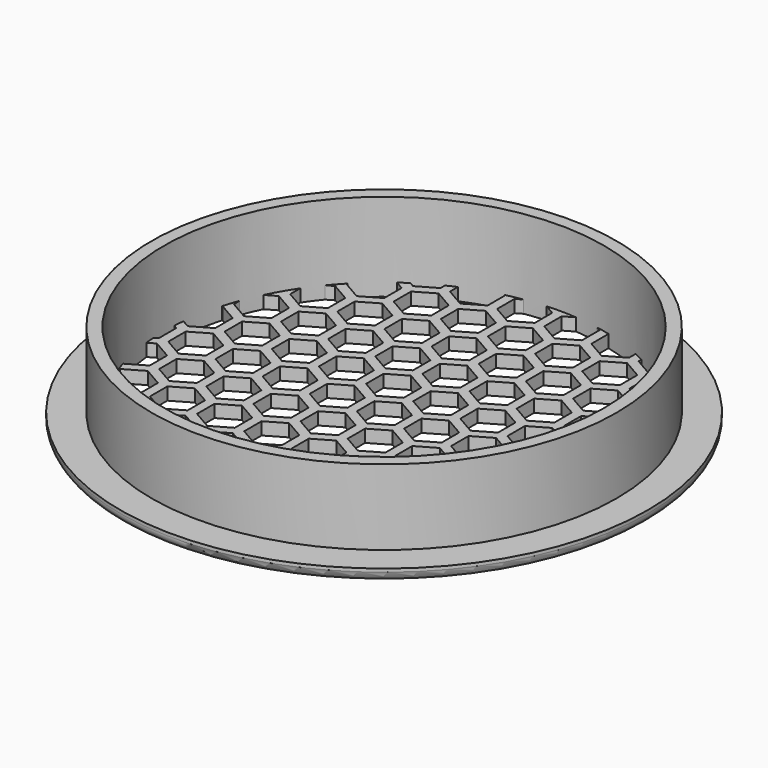
from build123d import *

# Parameters (mm, degrees)
F0_R     = 42
F0_R_2   = 35
F1_DEPTH = 2
F2_R     = 1.5
F3_R     = 37
F3_R_2   = 35
F4_DEPTH = 12
F6_DEPTH = 2


with BuildPart() as f1:
    # F0 (on Top) → F1 (new body)
    with BuildSketch(Plane.XY):
        Circle(F0_R)
        Circle(F0_R_2, mode=Mode.SUBTRACT)
    extrude(amount=F1_DEPTH)

    # F2
    f2_edges = [f1.edges().sort_by_distance(p)[0] for p in [
        (-42, 0, 0),
    ]]
    fillet(f2_edges, radius=F2_R)

    # F3 (on face) → F4 (join)
    with BuildSketch(Plane.XY.offset(2)):
        Circle(F3_R)
        Circle(F3_R_2, mode=Mode.SUBTRACT)
    extrude(amount=F4_DEPTH)

    # F5 (on Top) → F6 (join)
    with BuildSketch(Plane.XY):
        with BuildLine():
            Line((-34.354155, -1.849096), (-36.652131, -3.175833))
            ThreePointArc((-36.652131, -3.175833), (-36.574215, -3.973846), (-36.478925, -4.769972))
            Line((-36.478925, -4.769972), (-33.636892, -3.129123))
            Line((-33.636892, -3.129123), (-30.636892, -4.861174))
            Line((-30.636892, -4.861174), (-30.636892, -8.325275))
            Line((-30.636892, -8.325275), (-33.636892, -10.057326))
            Line((-33.636892, -10.057326), (-35.705972, -8.862742))
            ThreePointArc((-35.705972, -8.862742), (-35.432544, -9.899468), (-35.129021, -10.927785))
            Line((-35.129021, -10.927785), (-34.419628, -11.337354))
            Line((-34.419628, -11.337354), (-34.419628, -12.990528))
            ThreePointArc((-34.419628, -12.990528), (-33.678938, -14.805193), (-32.842655, -16.577837))
            Line((-32.842655, -16.577837), (-30.702365, -17.813533))
            Line((-30.702365, -17.813533), (-30.702365, -20.268927))
            ThreePointArc((-30.702365, -20.268927), (-29.527925, -21.944618), (-28.262135, -23.552418))
            Line((-28.262135, -23.552418), (-26.985102, -24.289713))
            Line((-26.985102, -24.289713), (-26.985102, -25.005378))
            ThreePointArc((-26.985102, -25.005378), (-26.246211, -25.779857), (-25.485102, -26.532513))
            Line((-25.485102, -26.532513), (-25.485102, -24.289713))
            Line((-25.485102, -24.289713), (-22.485102, -22.557662))
            Line((-22.485102, -22.557662), (-19.485102, -24.289713))
            Line((-19.485102, -24.289713), (-19.485102, -27.753815))
            Line((-19.485102, -27.753815), (-22.211348, -29.327814))
            ThreePointArc((-22.211348, -29.327814), (-21.565339, -29.806052), (-20.909037, -30.270064))
            Line((-20.909037, -30.270064), (-18.767838, -29.033842))
            Line((-18.767838, -29.033842), (-15.767838, -30.765893))
            Line((-15.767838, -30.765893), (-15.767838, -33.239132))
            ThreePointArc((-15.767838, -33.239132), (-15.021585, -33.582981), (-14.267838, -33.910079))
            Line((-14.267838, -33.910079), (-14.267838, -30.765893))
            Line((-14.267838, -30.765893), (-11.267838, -29.033842))
            Line((-11.267838, -29.033842), (-8.267838, -30.765893))
            Line((-8.267838, -30.765893), (-8.267838, -34.229995))
            Line((-8.267838, -34.229995), (-10.201931, -35.346644))
            ThreePointArc((-10.201931, -35.346644), (-0.012382, -36.789462), (10.178136, -35.353503))
            Line((10.178136, -35.353503), (8.232162, -34.229995))
            Line((8.232162, -34.229995), (8.232162, -30.765893))
            Line((8.232162, -30.765893), (11.232162, -29.033842))
            Line((11.232162, -29.033842), (14.232162, -30.765893))
            Line((14.232162, -30.765893), (14.232162, -33.925067))
            ThreePointArc((14.232162, -33.925067), (14.985896, -33.598922), (15.732162, -33.256033))
            Line((15.732162, -33.256033), (15.732162, -30.765893))
            Line((15.732162, -30.765893), (18.732162, -29.033842))
            Line((18.732162, -29.033842), (20.892789, -30.281281))
            ThreePointArc((20.892789, -30.281281), (21.563891, -29.807101), (22.224234, -29.31805))
            Line((22.224234, -29.31805), (19.514898, -27.753815))
            Line((19.514898, -27.753815), (19.514898, -24.289713))
            Line((19.514898, -24.289713), (22.514898, -22.557662))
            Line((22.514898, -22.557662), (25.514898, -24.289713))
            Line((25.514898, -24.289713), (25.514898, -26.50386))
            ThreePointArc((25.514898, -26.50386), (26.276047, -25.749447), (27.014898, -24.973183))
            Line((27.014898, -24.973183), (27.014898, -24.289713))
            Line((27.014898, -24.289713), (28.23444, -23.58561))
            ThreePointArc((28.23444, -23.58561), (29.566745, -21.892287), (30.797635, -20.123874))
            Line((30.797635, -20.123874), (30.797635, -17.813533))
            Line((30.797635, -17.813533), (32.803308, -16.655557))
            ThreePointArc((32.803308, -16.655557), (33.754124, -14.632967), (34.580372, -12.556374))
            Line((34.580372, -12.556374), (34.580372, -11.337354))
            Line((34.580372, -11.337354), (35.093588, -11.041048))
            ThreePointArc((35.093588, -11.041048), (35.39515, -10.032347), (35.667726, -9.01543))
            Line((35.667726, -9.01543), (33.863108, -10.057326))
            Line((33.863108, -10.057326), (30.863108, -8.325275))
            Line((30.863108, -8.325275), (30.863108, -4.861174))
            Line((30.863108, -4.861174), (33.863108, -3.129123))
            Line((33.863108, -3.129123), (36.494613, -4.648423))
            ThreePointArc((36.494613, -4.648423), (36.589265, -3.832793), (36.665691, -3.015254))
            Line((36.665691, -3.015254), (34.645845, -1.849096))
            Line((34.645845, -1.849096), (34.645845, 1.615006))
            Line((34.645845, 1.615006), (36.683412, 2.791396))
            ThreePointArc((36.683412, 2.791396), (36.613502, 3.593897), (36.526038, 4.394676))
            Line((36.526038, 4.394676), (33.928581, 2.895033))
            Line((33.928581, 2.895033), (30.928581, 4.627084))
            Line((30.928581, 4.627084), (30.928581, 8.091186))
            Line((30.928581, 8.091186), (33.928581, 9.823236))
            Line((33.928581, 9.823236), (35.724901, 8.786131))
            ThreePointArc((35.724901, 8.786131), (35.454342, 9.821114), (35.153805, 10.847794))
            Line((35.153805, 10.847794), (34.711318, 11.103264))
            Line((34.711318, 11.103264), (34.711318, 12.189711))
            ThreePointArc((34.711318, 12.189711), (33.868436, 14.366408), (32.889214, 16.485272))
            Line((32.889214, 16.485272), (30.994054, 17.579444))
            Line((30.994054, 17.579444), (30.994054, 19.820021))
            ThreePointArc((30.994054, 19.820021), (29.735108, 21.663056), (28.366715, 23.426355))
            Line((28.366715, 23.426355), (27.276791, 24.055623))
            Line((27.276791, 24.055623), (27.276791, 24.686865))
            ThreePointArc((27.276791, 24.686865), (26.538291, 25.479085), (25.776791, 26.249223))
            Line((25.776791, 26.249223), (25.776791, 24.055623))
            Line((25.776791, 24.055623), (22.776791, 22.323573))
            Line((22.776791, 22.323573), (19.776791, 24.055623))
            Line((19.776791, 24.055623), (19.776791, 27.519725))
            Line((19.776791, 27.519725), (22.511092, 29.098374))
            ThreePointArc((22.511092, 29.098374), (21.872973, 29.581036), (21.22451, 30.049706))
            Line((21.22451, 30.049706), (19.059527, 28.799752))
            Line((19.059527, 28.799752), (16.059527, 30.531803))
            Line((16.059527, 30.531803), (16.059527, 33.099188))
            ThreePointArc((16.059527, 33.099188), (15.313377, 33.450936), (14.559527, 33.785867))
            Line((14.559527, 33.785867), (14.559527, 30.531803))
            Line((14.559527, 30.531803), (11.559527, 28.799752))
            Line((11.559527, 28.799752), (8.559527, 30.531803))
            Line((8.559527, 30.531803), (8.559527, 33.995905))
            Line((8.559527, 33.995905), (10.662946, 35.210314))
            ThreePointArc((10.662946, 35.210314), (9.669943, 35.495871), (8.669312, 35.753429))
            Line((8.669312, 35.753429), (7.842264, 35.275932))
            Line((7.842264, 35.275932), (6.103922, 36.279564))
            ThreePointArc((6.103922, 36.279564), (4.447268, 36.519672), (2.781406, 36.684171))
            Line((2.781406, 36.684171), (0.342264, 35.275932))
            Line((0.342264, 35.275932), (-2.168463, 36.725501))
            ThreePointArc((-2.168463, 36.725501), (-3.671359, 36.605816), (-5.16809, 36.424655))
            Line((-5.16809, 36.424655), (-7.157736, 35.275932))
            Line((-7.157736, 35.275932), (-8.182985, 35.86786))
            ThreePointArc((-8.182985, 35.86786), (-9.222365, 35.614781), (-10.253947, 35.331589))
            Line((-10.253947, 35.331589), (-7.940473, 33.995905))
            Line((-7.940473, 33.995905), (-7.940473, 30.531803))
            Line((-7.940473, 30.531803), (-10.940473, 28.799752))
            Line((-10.940473, 28.799752), (-13.940473, 30.531803))
            Line((-13.940473, 30.531803), (-13.940473, 33.995905))
            Line((-13.940473, 33.995905), (-13.650828, 34.163131))
            ThreePointArc((-13.650828, 34.163131), (-14.550754, 33.789646), (-15.440473, 33.392461))
            Line((-15.440473, 33.392461), (-15.440473, 30.531803))
            Line((-15.440473, 30.531803), (-18.440473, 28.799752))
            Line((-18.440473, 28.799752), (-20.944567, 30.245492))
            ThreePointArc((-20.944567, 30.245492), (-21.768396, 29.658078), (-22.57576, 29.048231))
            Line((-22.57576, 29.048231), (-22.223209, 29.251776))
            Line((-22.223209, 29.251776), (-19.223209, 27.519725))
            Line((-19.223209, 27.519725), (-19.223209, 24.055623))
            Line((-19.223209, 24.055623), (-22.223209, 22.323573))
            Line((-22.223209, 22.323573), (-25.223209, 24.055623))
            Line((-25.223209, 24.055623), (-25.223209, 26.781605))
            ThreePointArc((-25.223209, 26.781605), (-31.836627, 18.43621), (-35.783015, 8.546371))
            Line((-35.783015, 8.546371), (-33.571419, 9.823236))
            Line((-33.571419, 9.823236), (-30.571419, 8.091186))
            Line((-30.571419, 8.091186), (-30.571419, 4.627084))
            Line((-30.571419, 4.627084), (-33.571419, 2.895033))
            Line((-33.571419, 2.895033), (-36.502358, 4.587212))
            ThreePointArc((-36.502358, 4.587212), (-36.595705, 3.770806), (-36.670796, 2.952519))
            Line((-36.670796, 2.952519), (-34.354155, 1.615006))
            Line((-34.354155, 1.615006), (-34.354155, -1.849096))
        make_face()
        Polygon((-3.767838, -35.962045), (-6.767838, -34.229995), (-6.767838, -30.765893), (-3.767838, -29.033842), (-0.767838, -30.765893), (-0.767838, -34.229995), align=None, mode=Mode.SUBTRACT)
        Polygon((3.732162, -35.962045), (0.732162, -34.229995), (0.732162, -30.765893), (3.732162, -29.033842), (6.732162, -30.765893), (6.732162, -34.229995), align=None, mode=Mode.SUBTRACT)
        Polygon((-14.985102, -29.485866), (-17.985102, -27.753815), (-17.985102, -24.289713), (-14.985102, -22.557662), (-11.985102, -24.289713), (-11.985102, -27.753815), align=None, mode=Mode.SUBTRACT)
        Polygon((-26.202365, -23.009686), (-29.202365, -21.277635), (-29.202365, -17.813533), (-26.202365, -16.081483), (-23.202365, -17.813533), (-23.202365, -21.277635), align=None, mode=Mode.SUBTRACT)
        Polygon((-18.702365, -23.009686), (-21.702365, -21.277635), (-21.702365, -17.813533), (-18.702365, -16.081483), (-15.702365, -17.813533), (-15.702365, -21.277635), align=None, mode=Mode.SUBTRACT)
        Polygon((-11.202365, -23.009686), (-14.202365, -21.277635), (-14.202365, -17.813533), (-11.202365, -16.081483), (-8.202365, -17.813533), (-8.202365, -21.277635), align=None, mode=Mode.SUBTRACT)
        Polygon((-7.485102, -29.485866), (-10.485102, -27.753815), (-10.485102, -24.289713), (-7.485102, -22.557662), (-4.485102, -24.289713), (-4.485102, -27.753815), align=None, mode=Mode.SUBTRACT)
        Polygon((0.014898, -29.485866), (-2.985102, -27.753815), (-2.985102, -24.289713), (0.014898, -22.557662), (3.014898, -24.289713), (3.014898, -27.753815), align=None, mode=Mode.SUBTRACT)
        Polygon((-3.702365, -23.009686), (-6.702365, -21.277635), (-6.702365, -17.813533), (-3.702365, -16.081483), (-0.702365, -17.813533), (-0.702365, -21.277635), align=None, mode=Mode.SUBTRACT)
        Polygon((3.797635, -23.009686), (0.797635, -21.277635), (0.797635, -17.813533), (3.797635, -16.081483), (6.797635, -17.813533), (6.797635, -21.277635), align=None, mode=Mode.SUBTRACT)
        Polygon((-29.919628, -16.533506), (-32.919628, -14.801455), (-32.919628, -11.337354), (-29.919628, -9.605303), (-26.919628, -11.337354), (-26.919628, -14.801455), align=None, mode=Mode.SUBTRACT)
        Polygon((-29.854155, -3.581147), (-32.854155, -1.849096), (-32.854155, 1.615006), (-29.854155, 3.347057), (-26.854155, 1.615006), (-26.854155, -1.849096), align=None, mode=Mode.SUBTRACT)
        Polygon((-22.419628, -16.533506), (-25.419628, -14.801455), (-25.419628, -11.337354), (-22.419628, -9.605303), (-19.419628, -11.337354), (-19.419628, -14.801455), align=None, mode=Mode.SUBTRACT)
        Polygon((-14.919628, -16.533506), (-17.919628, -14.801455), (-17.919628, -11.337354), (-14.919628, -9.605303), (-11.919628, -11.337354), (-11.919628, -14.801455), align=None, mode=Mode.SUBTRACT)
        Polygon((-7.419628, -16.533506), (-10.419628, -14.801455), (-10.419628, -11.337354), (-7.419628, -9.605303), (-4.419628, -11.337354), (-4.419628, -14.801455), align=None, mode=Mode.SUBTRACT)
        Polygon((0.080372, -16.533506), (-2.919628, -14.801455), (-2.919628, -11.337354), (0.080372, -9.605303), (3.080372, -11.337354), (3.080372, -14.801455), align=None, mode=Mode.SUBTRACT)
        Polygon((-26.136892, -10.057326), (-29.136892, -8.325275), (-29.136892, -4.861174), (-26.136892, -3.129123), (-23.136892, -4.861174), (-23.136892, -8.325275), align=None, mode=Mode.SUBTRACT)
        Polygon((-18.636892, -10.057326), (-21.636892, -8.325275), (-21.636892, -4.861174), (-18.636892, -3.129123), (-15.636892, -4.861174), (-15.636892, -8.325275), align=None, mode=Mode.SUBTRACT)
        Polygon((-11.136892, -10.057326), (-14.136892, -8.325275), (-14.136892, -4.861174), (-11.136892, -3.129123), (-8.136892, -4.861174), (-8.136892, -8.325275), align=None, mode=Mode.SUBTRACT)
        Polygon((-22.354155, -3.581147), (-25.354155, -1.849096), (-25.354155, 1.615006), (-22.354155, 3.347057), (-19.354155, 1.615006), (-19.354155, -1.849096), align=None, mode=Mode.SUBTRACT)
        Polygon((-14.854155, -3.581147), (-17.854155, -1.849096), (-17.854155, 1.615006), (-14.854155, 3.347057), (-11.854155, 1.615006), (-11.854155, -1.849096), align=None, mode=Mode.SUBTRACT)
        Polygon((-3.636892, -10.057326), (-6.636892, -8.325275), (-6.636892, -4.861174), (-3.636892, -3.129123), (-0.636892, -4.861174), (-0.636892, -8.325275), align=None, mode=Mode.SUBTRACT)
        Polygon((3.863108, -10.057326), (0.863108, -8.325275), (0.863108, -4.861174), (3.863108, -3.129123), (6.863108, -4.861174), (6.863108, -8.325275), align=None, mode=Mode.SUBTRACT)
        Polygon((-7.354155, -3.581147), (-10.354155, -1.849096), (-10.354155, 1.615006), (-7.354155, 3.347057), (-4.354155, 1.615006), (-4.354155, -1.849096), align=None, mode=Mode.SUBTRACT)
        Polygon((0.145845, -3.581147), (-2.854155, -1.849096), (-2.854155, 1.615006), (0.145845, 3.347057), (3.145845, 1.615006), (3.145845, -1.849096), align=None, mode=Mode.SUBTRACT)
        Polygon((7.514898, -29.485866), (4.514898, -27.753815), (4.514898, -24.289713), (7.514898, -22.557662), (10.514898, -24.289713), (10.514898, -27.753815), align=None, mode=Mode.SUBTRACT)
        Polygon((15.014898, -29.485866), (12.014898, -27.753815), (12.014898, -24.289713), (15.014898, -22.557662), (18.014898, -24.289713), (18.014898, -27.753815), align=None, mode=Mode.SUBTRACT)
        Polygon((11.297635, -23.009686), (8.297635, -21.277635), (8.297635, -17.813533), (11.297635, -16.081483), (14.297635, -17.813533), (14.297635, -21.277635), align=None, mode=Mode.SUBTRACT)
        Polygon((18.797635, -23.009686), (15.797635, -21.277635), (15.797635, -17.813533), (18.797635, -16.081483), (21.797635, -17.813533), (21.797635, -21.277635), align=None, mode=Mode.SUBTRACT)
        Polygon((26.297635, -23.009686), (23.297635, -21.277635), (23.297635, -17.813533), (26.297635, -16.081483), (29.297635, -17.813533), (29.297635, -21.277635), align=None, mode=Mode.SUBTRACT)
        Polygon((7.580372, -16.533506), (4.580372, -14.801455), (4.580372, -11.337354), (7.580372, -9.605303), (10.580372, -11.337354), (10.580372, -14.801455), align=None, mode=Mode.SUBTRACT)
        Polygon((15.080372, -16.533506), (12.080372, -14.801455), (12.080372, -11.337354), (15.080372, -9.605303), (18.080372, -11.337354), (18.080372, -14.801455), align=None, mode=Mode.SUBTRACT)
        Polygon((22.580372, -16.533506), (19.580372, -14.801455), (19.580372, -11.337354), (22.580372, -9.605303), (25.580372, -11.337354), (25.580372, -14.801455), align=None, mode=Mode.SUBTRACT)
        Polygon((30.080372, -16.533506), (27.080372, -14.801455), (27.080372, -11.337354), (30.080372, -9.605303), (33.080372, -11.337354), (33.080372, -14.801455), align=None, mode=Mode.SUBTRACT)
        Polygon((11.363108, -10.057326), (8.363108, -8.325275), (8.363108, -4.861174), (11.363108, -3.129123), (14.363108, -4.861174), (14.363108, -8.325275), align=None, mode=Mode.SUBTRACT)
        Polygon((18.863108, -10.057326), (15.863108, -8.325275), (15.863108, -4.861174), (18.863108, -3.129123), (21.863108, -4.861174), (21.863108, -8.325275), align=None, mode=Mode.SUBTRACT)
        Polygon((7.645845, -3.581147), (4.645845, -1.849096), (4.645845, 1.615006), (7.645845, 3.347057), (10.645845, 1.615006), (10.645845, -1.849096), align=None, mode=Mode.SUBTRACT)
        Polygon((15.145845, -3.581147), (12.145845, -1.849096), (12.145845, 1.615006), (15.145845, 3.347057), (18.145845, 1.615006), (18.145845, -1.849096), align=None, mode=Mode.SUBTRACT)
        Polygon((26.363108, -10.057326), (23.363108, -8.325275), (23.363108, -4.861174), (26.363108, -3.129123), (29.363108, -4.861174), (29.363108, -8.325275), align=None, mode=Mode.SUBTRACT)
        Polygon((22.645845, -3.581147), (19.645845, -1.849096), (19.645845, 1.615006), (22.645845, 3.347057), (25.645845, 1.615006), (25.645845, -1.849096), align=None, mode=Mode.SUBTRACT)
        Polygon((30.145845, -3.581147), (27.145845, -1.849096), (27.145845, 1.615006), (30.145845, 3.347057), (33.145845, 1.615006), (33.145845, -1.849096), align=None, mode=Mode.SUBTRACT)
        Polygon((-29.788682, 9.371213), (-32.788682, 11.103264), (-32.788682, 14.567365), (-29.788682, 16.299416), (-26.788682, 14.567365), (-26.788682, 11.103264), align=None, mode=Mode.SUBTRACT)
        Polygon((-26.071419, 2.895033), (-29.071419, 4.627084), (-29.071419, 8.091186), (-26.071419, 9.823236), (-23.071419, 8.091186), (-23.071419, 4.627084), align=None, mode=Mode.SUBTRACT)
        Polygon((-18.571419, 2.895033), (-21.571419, 4.627084), (-21.571419, 8.091186), (-18.571419, 9.823236), (-15.571419, 8.091186), (-15.571419, 4.627084), align=None, mode=Mode.SUBTRACT)
        Polygon((-11.071419, 2.895033), (-14.071419, 4.627084), (-14.071419, 8.091186), (-11.071419, 9.823236), (-8.071419, 8.091186), (-8.071419, 4.627084), align=None, mode=Mode.SUBTRACT)
        Polygon((-3.571419, 2.895033), (-6.571419, 4.627084), (-6.571419, 8.091186), (-3.571419, 9.823236), (-0.571419, 8.091186), (-0.571419, 4.627084), align=None, mode=Mode.SUBTRACT)
        Polygon((3.928581, 2.895033), (0.928581, 4.627084), (0.928581, 8.091186), (3.928581, 9.823236), (6.928581, 8.091186), (6.928581, 4.627084), align=None, mode=Mode.SUBTRACT)
        Polygon((-22.288682, 9.371213), (-25.288682, 11.103264), (-25.288682, 14.567365), (-22.288682, 16.299416), (-19.288682, 14.567365), (-19.288682, 11.103264), align=None, mode=Mode.SUBTRACT)
        Polygon((-14.788682, 9.371213), (-17.788682, 11.103264), (-17.788682, 14.567365), (-14.788682, 16.299416), (-11.788682, 14.567365), (-11.788682, 11.103264), align=None, mode=Mode.SUBTRACT)
        Polygon((-26.005946, 15.847393), (-29.005946, 17.579444), (-29.005946, 21.043545), (-26.005946, 22.775596), (-23.005946, 21.043545), (-23.005946, 17.579444), align=None, mode=Mode.SUBTRACT)
        Polygon((-18.505946, 15.847393), (-21.505946, 17.579444), (-21.505946, 21.043545), (-18.505946, 22.775596), (-15.505946, 21.043545), (-15.505946, 17.579444), align=None, mode=Mode.SUBTRACT)
        Polygon((-11.005946, 15.847393), (-14.005946, 17.579444), (-14.005946, 21.043545), (-11.005946, 22.775596), (-8.005946, 21.043545), (-8.005946, 17.579444), align=None, mode=Mode.SUBTRACT)
        Polygon((-7.288682, 9.371213), (-10.288682, 11.103264), (-10.288682, 14.567365), (-7.288682, 16.299416), (-4.288682, 14.567365), (-4.288682, 11.103264), align=None, mode=Mode.SUBTRACT)
        Polygon((0.211318, 9.371213), (-2.788682, 11.103264), (-2.788682, 14.567365), (0.211318, 16.299416), (3.211318, 14.567365), (3.211318, 11.103264), align=None, mode=Mode.SUBTRACT)
        Polygon((-3.505946, 15.847393), (-6.505946, 17.579444), (-6.505946, 21.043545), (-3.505946, 22.775596), (-0.505946, 21.043545), (-0.505946, 17.579444), align=None, mode=Mode.SUBTRACT)
        Polygon((3.994054, 15.847393), (0.994054, 17.579444), (0.994054, 21.043545), (3.994054, 22.775596), (6.994054, 21.043545), (6.994054, 17.579444), align=None, mode=Mode.SUBTRACT)
        Polygon((-14.723209, 22.323573), (-17.723209, 24.055623), (-17.723209, 27.519725), (-14.723209, 29.251776), (-11.723209, 27.519725), (-11.723209, 24.055623), align=None, mode=Mode.SUBTRACT)
        Polygon((-7.223209, 22.323573), (-10.223209, 24.055623), (-10.223209, 27.519725), (-7.223209, 29.251776), (-4.223209, 27.519725), (-4.223209, 24.055623), align=None, mode=Mode.SUBTRACT)
        Polygon((0.276791, 22.323573), (-2.723209, 24.055623), (-2.723209, 27.519725), (0.276791, 29.251776), (3.276791, 27.519725), (3.276791, 24.055623), align=None, mode=Mode.SUBTRACT)
        Polygon((-3.440473, 28.799752), (-6.440473, 30.531803), (-6.440473, 33.995905), (-3.440473, 35.727956), (-0.440473, 33.995905), (-0.440473, 30.531803), align=None, mode=Mode.SUBTRACT)
        Polygon((4.059527, 28.799752), (1.059527, 30.531803), (1.059527, 33.995905), (4.059527, 35.727956), (7.059527, 33.995905), (7.059527, 30.531803), align=None, mode=Mode.SUBTRACT)
        Polygon((11.428581, 2.895033), (8.428581, 4.627084), (8.428581, 8.091186), (11.428581, 9.823236), (14.428581, 8.091186), (14.428581, 4.627084), align=None, mode=Mode.SUBTRACT)
        Polygon((18.928581, 2.895033), (15.928581, 4.627084), (15.928581, 8.091186), (18.928581, 9.823236), (21.928581, 8.091186), (21.928581, 4.627084), align=None, mode=Mode.SUBTRACT)
        Polygon((26.428581, 2.895033), (23.428581, 4.627084), (23.428581, 8.091186), (26.428581, 9.823236), (29.428581, 8.091186), (29.428581, 4.627084), align=None, mode=Mode.SUBTRACT)
        Polygon((7.711318, 9.371213), (4.711318, 11.103264), (4.711318, 14.567365), (7.711318, 16.299416), (10.711318, 14.567365), (10.711318, 11.103264), align=None, mode=Mode.SUBTRACT)
        Polygon((15.211318, 9.371213), (12.211318, 11.103264), (12.211318, 14.567365), (15.211318, 16.299416), (18.211318, 14.567365), (18.211318, 11.103264), align=None, mode=Mode.SUBTRACT)
        Polygon((11.494054, 15.847393), (8.494054, 17.579444), (8.494054, 21.043545), (11.494054, 22.775596), (14.494054, 21.043545), (14.494054, 17.579444), align=None, mode=Mode.SUBTRACT)
        Polygon((18.994054, 15.847393), (15.994054, 17.579444), (15.994054, 21.043545), (18.994054, 22.775596), (21.994054, 21.043545), (21.994054, 17.579444), align=None, mode=Mode.SUBTRACT)
        Polygon((22.711318, 9.371213), (19.711318, 11.103264), (19.711318, 14.567365), (22.711318, 16.299416), (25.711318, 14.567365), (25.711318, 11.103264), align=None, mode=Mode.SUBTRACT)
        Polygon((30.211318, 9.371213), (27.211318, 11.103264), (27.211318, 14.567365), (30.211318, 16.299416), (33.211318, 14.567365), (33.211318, 11.103264), align=None, mode=Mode.SUBTRACT)
        Polygon((26.494054, 15.847393), (23.494054, 17.579444), (23.494054, 21.043545), (26.494054, 22.775596), (29.494054, 21.043545), (29.494054, 17.579444), align=None, mode=Mode.SUBTRACT)
        Polygon((7.776791, 22.323573), (4.776791, 24.055623), (4.776791, 27.519725), (7.776791, 29.251776), (10.776791, 27.519725), (10.776791, 24.055623), align=None, mode=Mode.SUBTRACT)
        Polygon((15.276791, 22.323573), (12.276791, 24.055623), (12.276791, 27.519725), (15.276791, 29.251776), (18.276791, 27.519725), (18.276791, 24.055623), align=None, mode=Mode.SUBTRACT)
    extrude(amount=F6_DEPTH)


solid = f1.part
